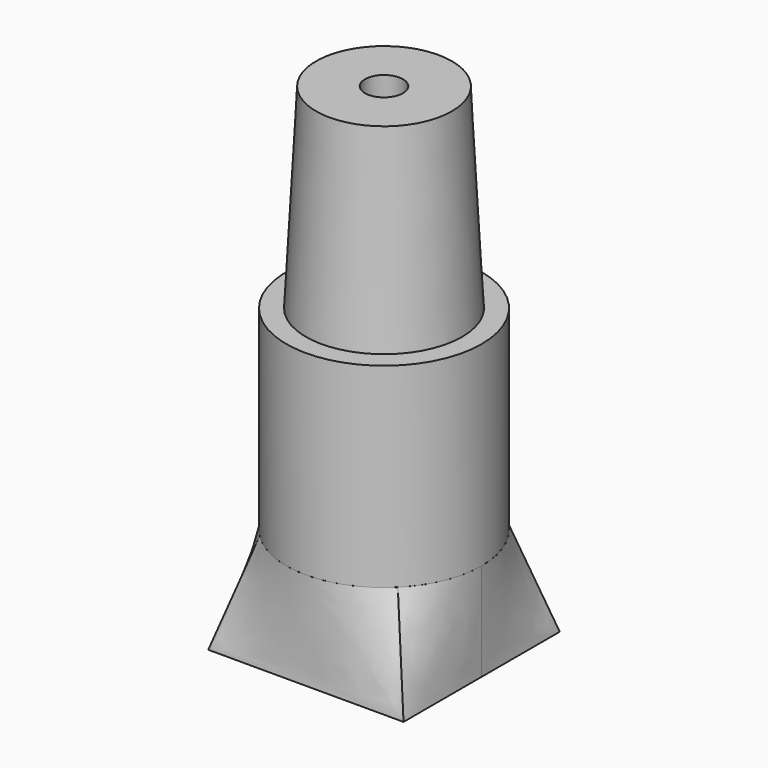
from build123d import *

# Parameters (mm, degrees)
F0_R      = 4
F1_DEPTH  = 10
F1_TAPER  = 3
F2_T      = -2.5
F3_R      = 5
F4_DEPTH  = 10
F4_FACE_R = 5
F6_W      = 10
F6_H      = 10


with BuildPart() as f1:
    # F0 (on Top) → F1 (new body)
    with BuildSketch(Plane.XY):
        Circle(F0_R)
    extrude(amount=F1_DEPTH, taper=F1_TAPER)

    # F2
    f2_openings = [f1.faces().sort_by_distance(p)[0] for p in [
        (0, 0, 10),
    ]]
    offset(amount=F2_T, openings=f2_openings)

    # F3 (on face) → F4 (join)
    with BuildSketch(Plane(origin=(0, 0, 0), x_dir=(1, 0, 0), z_dir=(0, 0, -1))):
        Circle(F3_R)
    extrude(amount=F4_DEPTH)


with BuildPart() as f7:
    # F4_face (on face) → F7 section 0
    with BuildSketch(Plane(origin=(0, 0, -10), x_dir=(1, 0, 0), z_dir=(0, 0, -1))):
        Circle(F4_FACE_R)
    # F6 (on offset) → F7 section 1
    with BuildSketch(Plane(origin=(0, 0, -15), x_dir=(1, 0, 0), z_dir=(0, 0, -1))):
        Rectangle(F6_W, F6_H)
    loft()


solid = Compound([f1.part, f7.part])
